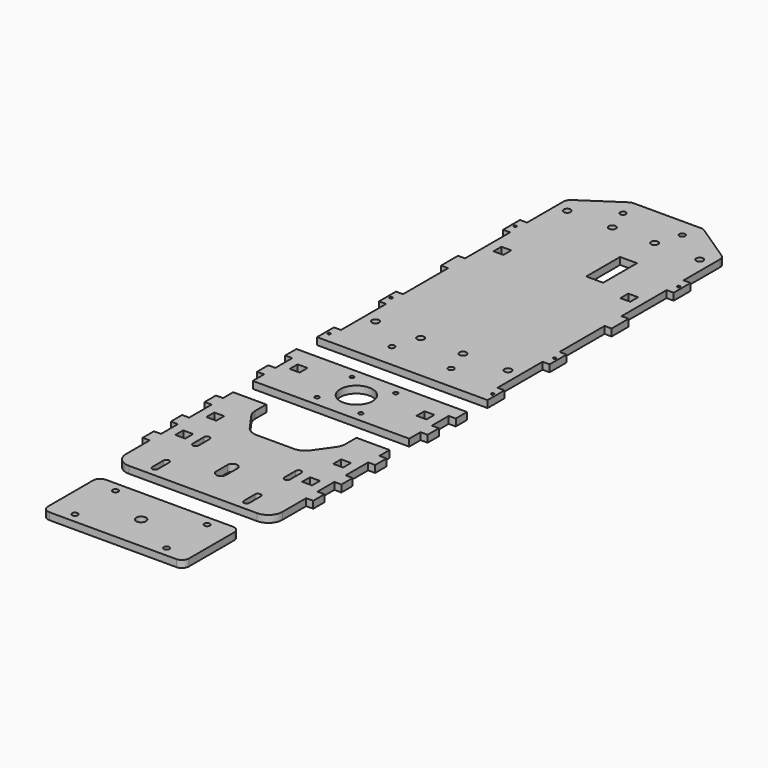
from build123d import *

# Parameters (mm, degrees)
F0_W      = 7
F0_H      = 7
F0_W_2    = 12
F0_H_2    = 30
F1_DEPTH  = 5
F3_D      = 5
F4_R      = 5
F6_D      = 4
F7_W      = 7
F7_H      = 7
F8_DEPTH  = 5
F10_D     = 3
F12_D     = 23
F13_W     = 7
F13_H     = 7
F14_DEPTH = 5
F15_R     = 10
F17_DEPTH = 5
F18_W     = 100
F18_H     = 50
F19_DEPTH = 5
F20_R     = 5
F22_D     = 7
F24_D     = 4
F26_D     = 2


with BuildPart() as f1:
    # F0 (on Top) → F1 (new body)
    with BuildSketch(Plane.XY):
        Polygon((-60.5, -107.5), (-55.5, -107.5), (55.5, -107.5), (60.5, -107.5), (60.5, -92.5), (55.5, -92.5), (55.5, -52.5), (60.5, -52.5), (60.5, -37.5), (55.5, -37.5), (55.5, 2.5), (60.5, 2.5), (60.5, 17.5), (55.5, 17.5), (55.5, 57.5), (60.5, 57.5), (60.5, 72.5), (55.5, 72.5), (55.5, 107.5), (25.5, 127.5), (-25.5, 127.5), (-55.5, 107.5), (-55.5, 72.5), (-60.5, 72.5), (-60.5, 57.5), (-55.5, 57.5), (-55.5, 17.5), (-60.5, 17.5), (-60.5, 2.5), (-55.5, 2.5), (-55.5, -37.5), (-60.5, -37.5), (-60.5, -52.5), (-55.5, -52.5), (-55.5, -92.5), (-60.5, -92.5), align=None)
        with Locations((-45, 37.5)):
            Rectangle(F0_W, F0_H, mode=Mode.SUBTRACT)
        with Locations((16.5, 57.5)):
            Rectangle(F0_W_2, F0_H_2, mode=Mode.SUBTRACT)
        with Locations((45, 37.5)):
            Rectangle(F0_W, F0_H, mode=Mode.SUBTRACT)
    extrude(amount=F1_DEPTH)

    # F3 (through all)
    with Locations(Plane.XY.offset(5)):
        with Locations((-47, 97.5), (-15, 97.5), (15, 97.5), (47, 97.5), (47, -72.5), (15, -72.5), (-15, -72.5), (-47, -72.5)):
            Hole(F3_D / 2)

    # F4
    f4_edges = [f1.edges().sort_by_distance(p)[0] for p in [
        (-55.5, 107.5, 2.5),
        (-25.5, 127.5, 2.5),
        (25.5, 127.5, 2.5),
        (55.5, 107.5, 2.5),
    ]]
    fillet(f4_edges, radius=F4_R)

    # F6 (through all)
    with Locations(Plane.XY.offset(5)):
        with Locations((-21, 114.5), (21, 114.5), (-21, -90.5), (21, -90.5)):
            Hole(F6_D / 2)

    # F26 (through all)
    with Locations(Plane.XY.offset(5)):
        with Locations((-58, 65), (58, 65), (-58, -100), (58, -100), (-58, -45), (58, -45)):
            Hole(F26_D / 2)


with BuildPart() as f8:
    # F7 (on Top) → F8 (new body)
    with BuildSketch(Plane.XY):
        Polygon((55.5, -125.7344055176), (-55.5, -125.7344055176), (-60.5, -125.7344055176), (-60.5, -135.7344055176), (-55.5, -135.7344055176), (-55.5, -150.7344055176), (-60.5, -150.7344055176), (-60.5, -160.7344055176), (-55.5, -160.7344055176), (-55.5, -170.7344055176), (55.5, -170.7344055176), (55.5, -160.7344055176), (60.5, -160.7344055176), (60.5, -150.7344055176), (55.5, -150.7344055176), (55.5, -135.7344055176), (60.5, -135.7344055176), (60.5, -125.7344055176), align=None)
        with Locations((-45, -143.2344055176)):
            Rectangle(F7_W, F7_H, mode=Mode.SUBTRACT)
        with Locations((45, -143.2344055176)):
            Rectangle(F7_W, F7_H, mode=Mode.SUBTRACT)
    extrude(amount=F8_DEPTH)

    # F10 (through all)
    with Locations(Plane.XY.offset(5)):
        with Locations((-15.5, -132.7344055176), (15.5, -132.7344055176), (15.5, -163.7344055176), (-15.5, -163.7344055176)):
            Hole(F10_D / 2)

    # F12 (through all)
    with Locations(Plane.XY.offset(5)):
        with Locations((0, -148.2344055176)):
            Hole(F12_D / 2)


with BuildPart() as f14:
    # F13 (on Top) → F14 (new body)
    with BuildSketch(Plane.XY):
        Polygon((-32, -188.164337635), (-55.5, -188.164337635), (-55.5, -197.164337635), (-60.5, -197.164337635), (-60.5, -207.164337635), (-55.5, -207.164337635), (-55.5, -227.164337635), (-60.5, -227.164337635), (-60.5, -237.164337635), (-55.5, -237.164337635), (-55.5, -252.164337635), (-60.5, -252.164337635), (-60.5, -262.164337635), (-55.5, -262.164337635), (-55.5, -277.164337635), (-55.5, -293.164337635), (55.5, -293.164337635), (55.5, -277.164337635), (55.5, -262.164337635), (60.5, -262.164337635), (60.5, -252.164337635), (55.5, -252.164337635), (55.5, -237.164337635), (60.5, -237.164337635), (60.5, -227.164337635), (55.5, -227.164337635), (55.5, -207.164337635), (60.5, -207.164337635), (60.5, -197.164337635), (55.5, -197.164337635), (55.5, -188.164337635), (32, -188.164337635), (32, -201.164337635), (18.5, -220.164337635), (0, -220.164337635), (-18.5, -220.164337635), (-32, -201.164337635), align=None)
        with Locations((-45, -244.664337635)):
            Rectangle(F13_W, F13_H, mode=Mode.SUBTRACT)
        with Locations((45, -244.664337635)):
            Rectangle(F13_W, F13_H, mode=Mode.SUBTRACT)
        with Locations((-45, -217.164337635)):
            Rectangle(F13_W, F13_H, mode=Mode.SUBTRACT)
        with Locations((45, -217.164337635)):
            Rectangle(F13_W, F13_H, mode=Mode.SUBTRACT)
    extrude(amount=F14_DEPTH)

    # F15
    f15_edges = [f14.edges().sort_by_distance(p)[0] for p in [
        (32, -201.164338, 2.5),
        (18.5, -220.164338, 2.5),
        (-18.5, -220.164338, 2.5),
        (-32, -201.164338, 2.5),
        (-55.5, -293.164338, 2.5),
        (55.5, -293.164338, 2.5),
    ]]
    fillet(f15_edges, radius=F15_R)

    # F16 (on face) → F17 (cut)
    with BuildSketch(Plane.XY.offset(5)):
        with BuildLine():
            Line((3.5, -268.164337635), (3.5, -258.164337635))
            ThreePointArc((3.5, -258.164337635), (0, -254.664337635), (-3.5, -258.164337635))
            Line((-3.5, -258.164337635), (-3.5, -268.164337635))
            ThreePointArc((-3.5, -268.164337635), (0, -271.664337635), (3.5, -268.164337635))
        make_face()
        with BuildLine():
            ThreePointArc((-30.5, -240.164337635), (-32.5, -238.164337635), (-34.5, -240.164337635))
            Line((-34.5, -240.164337635), (-34.5, -250.164337635))
            ThreePointArc((-34.5, -250.164337635), (-32.5, -252.164337635), (-30.5, -250.164337635))
            Line((-30.5, -250.164337635), (-30.5, -240.164337635))
        make_face()
        with BuildLine():
            ThreePointArc((34.5, -240.164337635), (32.5, -238.164337635), (30.5, -240.164337635))
            Line((30.5, -240.164337635), (30.5, -250.164337635))
            ThreePointArc((30.5, -250.164337635), (32.5, -252.164337635), (34.5, -250.164337635))
            Line((34.5, -250.164337635), (34.5, -240.164337635))
        make_face()
        with BuildLine():
            ThreePointArc((30.5, -286.164337635), (32.5, -288.164337635), (34.5, -286.164337635))
            Line((34.5, -286.164337635), (34.5, -276.164337635))
            ThreePointArc((34.5, -276.164337635), (32.5, -274.164337635), (30.5, -276.164337635))
            Line((30.5, -276.164337635), (30.5, -286.164337635))
        make_face()
        with BuildLine():
            ThreePointArc((-34.5, -286.164337635), (-32.5, -288.164337635), (-30.5, -286.164337635))
            Line((-30.5, -286.164337635), (-30.5, -276.164337635))
            ThreePointArc((-30.5, -276.164337635), (-32.5, -274.164337635), (-34.5, -276.164337635))
            Line((-34.5, -276.164337635), (-34.5, -286.164337635))
        make_face()
    extrude(amount=-F17_DEPTH, mode=Mode.SUBTRACT)


with BuildPart() as f19:
    # F18 (on Top) → F19 (new body)
    with BuildSketch(Plane.XY):
        with Locations((0, -339.197203517)):
            Rectangle(F18_W, F18_H)
    extrude(amount=F19_DEPTH)

    # F20
    f20_edges = [f19.edges().sort_by_distance(p)[0] for p in [
        (-50, -364.197204, 2.5),
        (50, -364.197204, 2.5),
        (50, -314.197204, 2.5),
        (-50, -314.197204, 2.5),
    ]]
    fillet(f20_edges, radius=F20_R)

    # F22 (through all)
    with Locations(Plane.XY.offset(5)):
        with Locations((0, -339.197203517)):
            Hole(F22_D / 2)

    # F24 (through all)
    with Locations(Plane.XY.offset(5)):
        with Locations((-32.5, -321.197203517), (-32.5, -357.197203517), (32.5, -357.197203517), (32.5, -321.197203517)):
            Hole(F24_D / 2)


solid = Compound([f1.part, f8.part, f14.part, f19.part])
